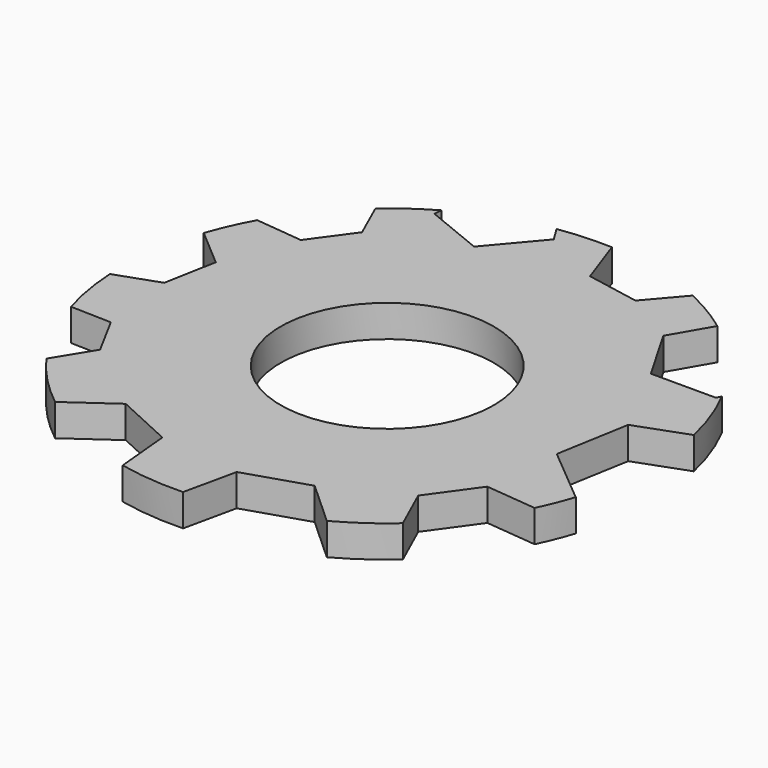
from build123d import *

# Parameters (mm, degrees)
F0_R     = 63.5
F1_DEPTH = 7.62
F2_R     = 25.4
F3_DEPTH = 10.16
F5_DEPTH = 25.4


with BuildPart() as f1:
    # F0 (on Top) → F1 (new body)
    with BuildSketch(Plane.XY):
        with Locations((-7.679907, 7.63871)):
            Circle(F0_R)
    extrude(amount=F1_DEPTH)

    # F2 (on face) → F3 (cut)
    with BuildSketch(Plane.XY.offset(7.62)):
        with Locations((-7.679907, 7.63871)):
            Circle(F2_R)
    extrude(amount=-F3_DEPTH, mode=Mode.SUBTRACT)

    # F4 (on face) → F5 (cut)
    with BuildSketch(Plane.XY.offset(7.62)):
        Polygon((-70.018905, -10.474761), (-75.894549, -20.027222), (-70.559698, -29.89191), (-59.349201, -30.204137), (-53.473556, -20.651676), (-58.808408, -10.786988), align=None)
        Polygon((-72.942136, 3.63904), (-60.994428, 7.849691), (-58.667104, 20.302035), (-68.287489, 28.543728), (-80.235197, 24.333077), (-82.562521, 11.880733), align=None)
        Polygon((-63.660068, 38.412835), (-51.911708, 37.186518), (-44.975507, 46.747738), (-49.787665, 57.535274), (-61.536025, 58.761591), (-68.472226, 49.200372), align=None)
        Polygon((-23.294299, 79.663551), (-37.981644, 76.049112), (-39.082748, 60.963693), (-25.075922, 55.254831), (-15.318124, 66.811979), align=None)
        Polygon((-47.082333, -58.607126), (-33.286273, -64.939879), (-20.903919, -56.158517), (-22.317623, -41.044403), (-36.113683, -34.71165), (-48.496038, -43.493011), align=None)
        Polygon((5.356202, -68.9087), (20.162689, -64.180396), (23.471101, -48.993451), (11.973027, -38.53481), (-2.83346, -43.263113), (-6.141872, -58.450058), align=None)
        Polygon((34.981984, -41.765964), (48.281185, -43.091442), (56.078684, -32.236736), (50.576981, -20.056551), (37.27778, -18.731073), (29.480282, -29.585779), align=None)
        Polygon((52.745689, -11.753145), (69.391161, -5.659039), (72.436247, 11.803416), (58.83586, 23.171765), (42.190388, 17.077659), (39.145302, -0.384796), align=None)
        Polygon((48.057828, 35.814065), (55.786416, 49.200372), (48.057828, 62.586678), (32.600653, 62.586678), (24.872065, 49.200372), (32.600653, 35.814065), align=None)
        Polygon((20.397003, 66.884476), (16.08287, 79.105869), (3.341766, 81.480417), (-5.085204, 71.633571), (-0.771071, 59.412177), (11.970033, 57.03763), align=None)
    extrude(amount=-F5_DEPTH, mode=Mode.SUBTRACT)


solid = f1.part
